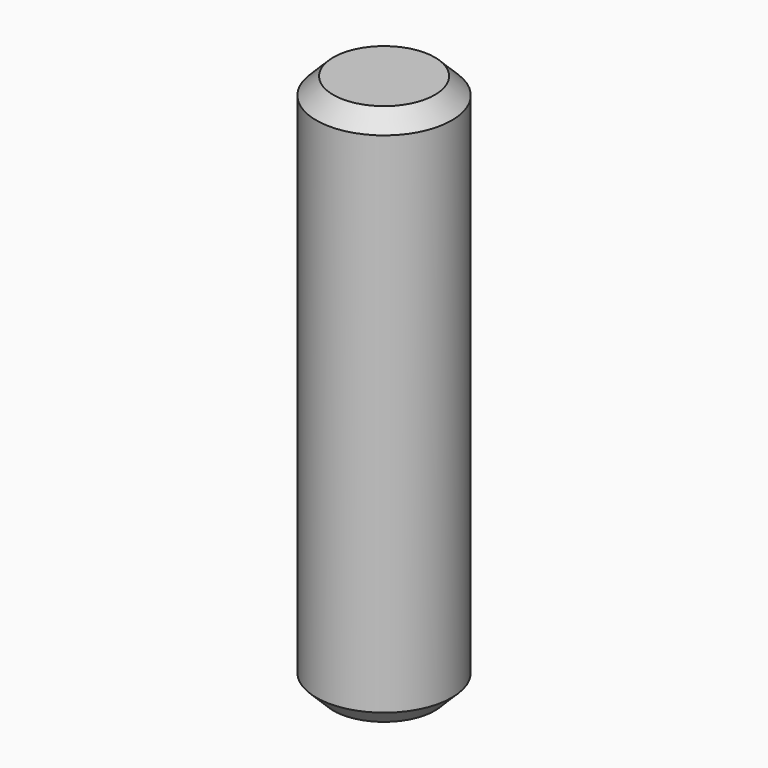
from build123d import *

# Parameters (mm, degrees)
F0_R     = 2
F1_DEPTH = 8
F2_SIZE  = 0.5


with BuildPart() as f1:
    # F0 (on Top) → F1 (new body, symmetric)
    with BuildSketch(Plane.XY):
        Circle(F0_R)
    extrude(amount=F1_DEPTH, both=True)

    # F2
    f2_edges = [f1.edges().sort_by_distance(p)[0] for p in [
        (-2, 0, 8),
        (-2, 0, -8),
    ]]
    chamfer(f2_edges, length=F2_SIZE)


solid = f1.part
